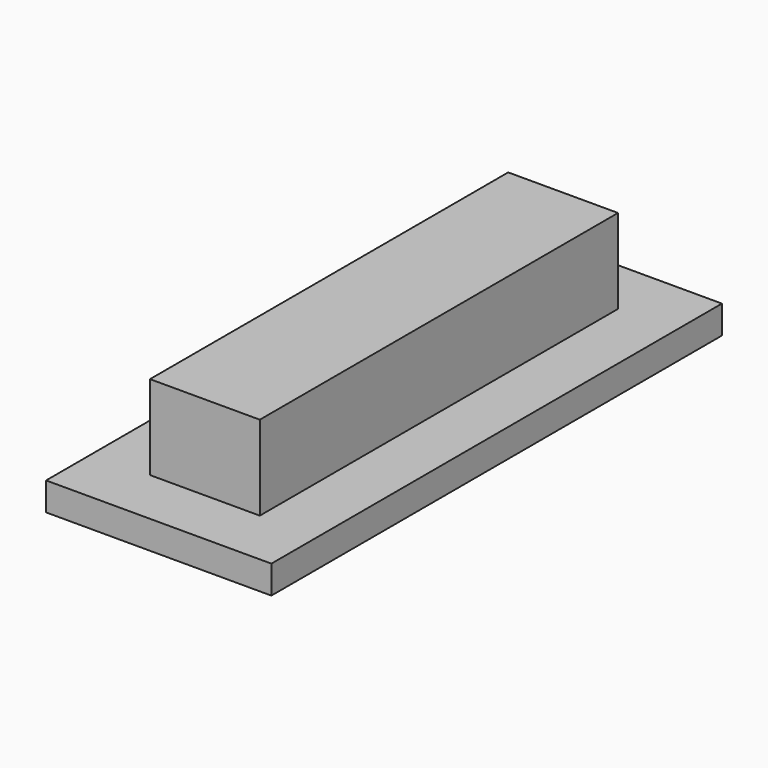
from build123d import *

# Parameters (mm, degrees)
F0_W     = 80
F0_H     = 200
F0_W_2   = 39
F0_H_2   = 159
F1_DEPTH = 10
F2_DEPTH = 40


with BuildPart() as f1:
    # F0 (on Top) → F1 (new body)
    with BuildSketch(Plane.XY):
        with Locations((40, 100)):
            Rectangle(F0_W, F0_H)
        with Locations((40, 100)):
            Rectangle(F0_W_2, F0_H_2, mode=Mode.SUBTRACT)
        with Locations((40, 100)):
            Rectangle(F0_W, F0_H)
        with Locations((40, 100)):
            Rectangle(F0_W_2, F0_H_2, mode=Mode.SUBTRACT)
    extrude(amount=F1_DEPTH)

    # F0 (on Top) → F2 (join)
    with BuildSketch(Plane.XY):
        with Locations((40, 100)):
            Rectangle(F0_W_2, F0_H_2)
    extrude(amount=F2_DEPTH)


solid = f1.part
